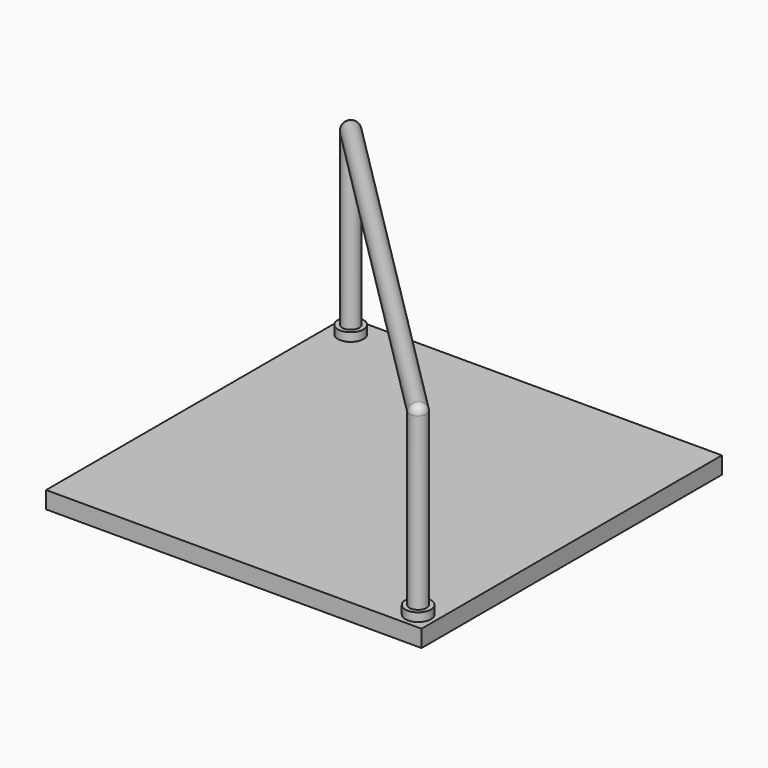
from build123d import *

# Parameters (mm, degrees)
F0_W     = 558.8
F0_H     = 558.8
F1_DEPTH = 25.4
F3_W     = 12.7
F3_H     = 12.7
F5_R     = 19.05
F5_R_2   = 12.7
F6_DEPTH = 12.7
F7_DEPTH = 266.7
F8_DEPTH = 241.3


with BuildPart() as f1:
    # F0 (on Top) → F1 (new body)
    with BuildSketch(Plane.XY):
        with Locations((-279.4, 279.4)):
            Rectangle(F0_W, F0_H)
    extrude(amount=F1_DEPTH)

    # F3 (on offset) → F4 (revolve)
    with BuildSketch(Plane.XZ.offset(-25.4)):
        with Locations((-19.05, 44.45)):
            Rectangle(F3_W, F3_H)
        Polygon((-12.7, 38.1), (-25.4, 38.1), (-25.4, 25.4), (-6.35, 25.4), (-6.35, 38.1), align=None)
    revolve(axis=Axis((-25.4, 25.4, 38.1), (0, 0, -1)))

    # F5 (on face) → F6 (join)
    with BuildSketch(Plane.XY.offset(25.4)):
        with Locations((-527.05, 527.05)):
            Circle(F5_R)
        with Locations((-527.05, 527.05)):
            Circle(F5_R_2, mode=Mode.SUBTRACT)
    extrude(amount=F6_DEPTH)

    # F7 (add): a face of the model
    f7_faces = [f1.faces().sort_by_distance(p)[0] for p in [
        (-527.05, 527.05, 25.4),
    ]]
    extrude(f7_faces, amount=F7_DEPTH)

    # F8 (add): a face of the model
    f8_faces = [f1.faces().sort_by_distance(p)[0] for p in [
        (-25.4, 25.4, 50.8),
    ]]
    extrude(f8_faces, amount=F8_DEPTH)


with BuildPart() as f11:
    # F10 (on offset) → F11 (revolve)
    with BuildSketch(Plane.XY.offset(292.1)):
        with BuildLine():
            ThreePointArc((-34.9808489018, 17.0634938781), (-38.0923685167, 25.8402061306), (-34.3802561211, 34.3802561211))
            Line((-34.3802561211, 34.3802561211), (-518.0697438789, 518.0697438789))
            ThreePointArc((-518.0697438789, 518.0697438789), (-526.6097938694, 514.3576314833), (-535.3865061219, 517.4691510982))
            Line((-535.3865061219, 517.4691510982), (-34.9808489018, 17.0634938781))
        make_face()
        with BuildLine():
            ThreePointArc((-535.3865061219, 517.4691510982), (-526.6097938694, 514.3576314833), (-518.0697438789, 518.0697438789))
            Line((-518.0697438789, 518.0697438789), (-536.0302561211, 536.0302561211))
            ThreePointArc((-536.0302561211, 536.0302561211), (-539.7423685167, 527.4902061306), (-536.6308489018, 518.7134938781))
            Line((-536.6308489018, 518.7134938781), (-535.3865061219, 517.4691510982))
        make_face()
        with BuildLine():
            ThreePointArc((-33.7365061219, 15.8191510982), (-24.9597938694, 12.7076314833), (-16.4197438789, 16.4197438789))
            Line((-16.4197438789, 16.4197438789), (-34.3802561211, 34.3802561211))
            ThreePointArc((-34.3802561211, 34.3802561211), (-38.0923685167, 25.8402061306), (-34.9808489018, 17.0634938781))
            Line((-34.9808489018, 17.0634938781), (-33.7365061219, 15.8191510982))
        make_face()
    revolve(axis=Axis((-276.225, 276.225, 292.1), (-0.7071067812, 0.7071067812, 0)))


solid = Compound([f1.part, f11.part])
